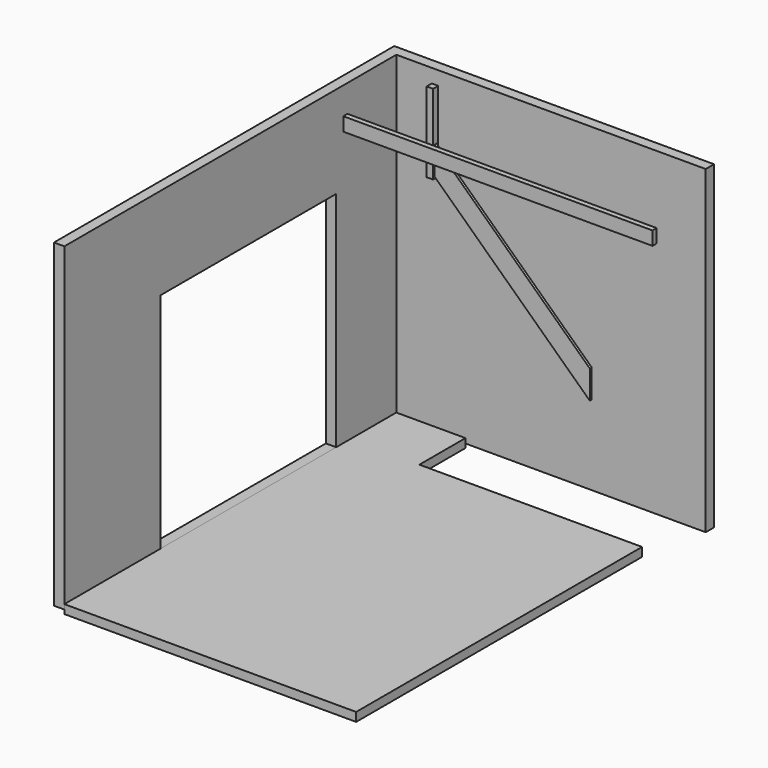
from build123d import *

# Parameters (mm, degrees)
F1_DEPTH  = 60
F2_W      = 130
F2_H      = 1.8036745379
F2_H_2    = 5190.3005458524
F3_DEPTH  = 4000
F5_DEPTH  = 3110
F8_DEPTH  = 32.5
F10_DEPTH = 50
F12_DEPTH = 30
F14_W     = 80
F14_H     = 80
F15_DEPTH = 1000


with BuildPart() as f1:
    # F0 (on Top) → F1 (new body)
    with BuildSketch(Plane.XY):
        Polygon((-445.0587827958, 4530.998605201), (-1310.0587827958, 4530.998605201), (-1310.0587827958, -659.001394799), (2339.9412172042, -659.001394799), (2339.9412172042, 3810.998605201), (-445.0587827958, 3810.998605201), align=None)
    extrude(amount=F1_DEPTH)

    # F0 (on Top) → F10 (join)
    with BuildSketch(Plane.XY):
        Polygon((-445.0587827958, 4530.998605201), (-1310.0587827958, 4530.998605201), (-1310.0587827958, -659.001394799), (2339.9412172042, -659.001394799), (2339.9412172042, 3810.998605201), (-445.0587827958, 3810.998605201), align=None)
    extrude(amount=-F10_DEPTH)


with BuildPart() as f3:
    # F2 (on Top) → F3 (new body)
    with BuildSketch(Plane.XY):
        Polygon((-1440.1026368141, 4661.2869168927), (-1440.1026368141, 4531.2869168927), (-1440.0708675385, 4531.2869168927), (-1440.0708675385, 4533.0905914307), (-1310.0708675385, 4533.0905914307), (-1310.0708675385, 4531.2869168927), (2559.8973631859, 4531.2869168927), (2559.8973631859, 4661.2869168927), align=None)
        with Locations((-1375.0708675385, 4532.1887541617)):
            Rectangle(F2_W, F2_H)
        with Locations((-1375.0708675385, 1936.1366439665)):
            Rectangle(F2_W, F2_H_2)
    extrude(amount=F3_DEPTH)


with BuildPart() as f5:
    # F4 (on Right) → F5 (new body)
    with BuildSketch(Plane.YZ):
        Polygon((840.3320908546, 2249.2091059892), (840.3320908546, 59.7180425914), (3591.3395881653, 59.7180425914), (3591.3395881653, 60.2437220514), (3591.3395881653, 2849.7180425914), (840.3320908546, 2849.7180425914), align=None)
    extrude(amount=-F5_DEPTH)


with BuildPart() as f3_1:
    add(f3.part)

    # F6: cut F5
    add(f5.part, mode=Mode.SUBTRACT)


with BuildPart() as f8:
    # F7 (on Front) → F8 (new body, symmetric)
    with BuildSketch(Plane.XZ):
        Polygon((-481.5003275871, 3490), (2558.0120618688, 3490), (2558.0120618688, 3660), (-1441.9879381312, 3660), (-1441.9879381312, 3490), align=None)
    extrude(amount=F8_DEPTH, both=True)


with BuildPart() as f8_1:
    # F9: moved
    add(f8.part.moved(Location((0, 3734.4, 0))))


with BuildPart() as f12:
    # F11 (on Front) → F12 (new body)
    with BuildSketch(Plane.XZ):
        Polygon((-1939.9543714925, 1834.5236538478), (0, 0), (0, 355), (-1939.9543714925, 2189.5236538478), align=None)
    extrude(amount=F12_DEPTH)


with BuildPart() as f12_1:
    # F13: moved
    add(f12.part.moved(Location((1690, 3836.29, 1460))))


with BuildPart() as f15:
    # F14 (on Top) → F15 (new body)
    with BuildSketch(Plane.XY):
        Rectangle(F14_W, F14_H)
    extrude(amount=F15_DEPTH)


with BuildPart() as f15_1:
    # F16: moved
    add(f15.part.moved(Location((-289.95, 3821.29, 3274.52))))


solid = Compound([f1.part, f3_1.part, f8_1.part, f12_1.part, f15_1.part])
